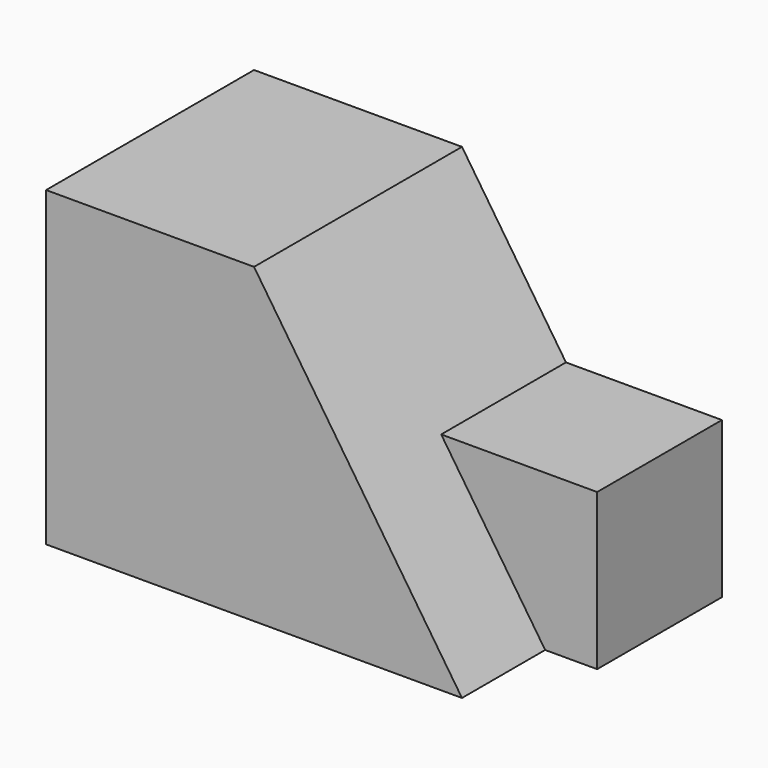
from build123d import *

# Parameters (mm, degrees)
F0_W     = 50.8
F0_H     = 38.1
F1_DEPTH = 31.75
F3_DEPTH = 12.7
F5_DEPTH = 25.4
F6_DEPTH = 6.35


with BuildPart() as f1:
    # F0 (on Front) → F1 (new body)
    with BuildSketch(Plane.XZ):
        with Locations((-45.7247960726, 26.2155969156)):
            Rectangle(F0_W, F0_H)
    extrude(amount=F1_DEPTH)

    # F2 (on face) → F3 (cut)
    with BuildSketch(Plane.XZ.offset(31.75)):
        Polygon((-45.7247960726, 45.2655969156), (-20.3247960726, 7.1655969156), (-20.3247960726, 45.2655969156), align=None)
    extrude(amount=-F3_DEPTH, mode=Mode.SUBTRACT)

    # F4 (on face) → F5 (cut)
    with BuildSketch(Plane.XZ.offset(19.05)):
        Polygon((-45.7247960726, 45.2655969156), (-33.0247960726, 26.2155969156), (-20.3247960726, 26.2155969156), (-20.3247960726, 45.2655969156), align=None)
    extrude(amount=-F5_DEPTH, mode=Mode.SUBTRACT)

    # F6 (add): a face of the model
    f6_faces = [f1.faces().sort_by_distance(p)[0] for p in [
        (-20.3247960726, -9.525, 16.6905969156),
    ]]
    extrude(f6_faces, amount=F6_DEPTH)


solid = f1.part
